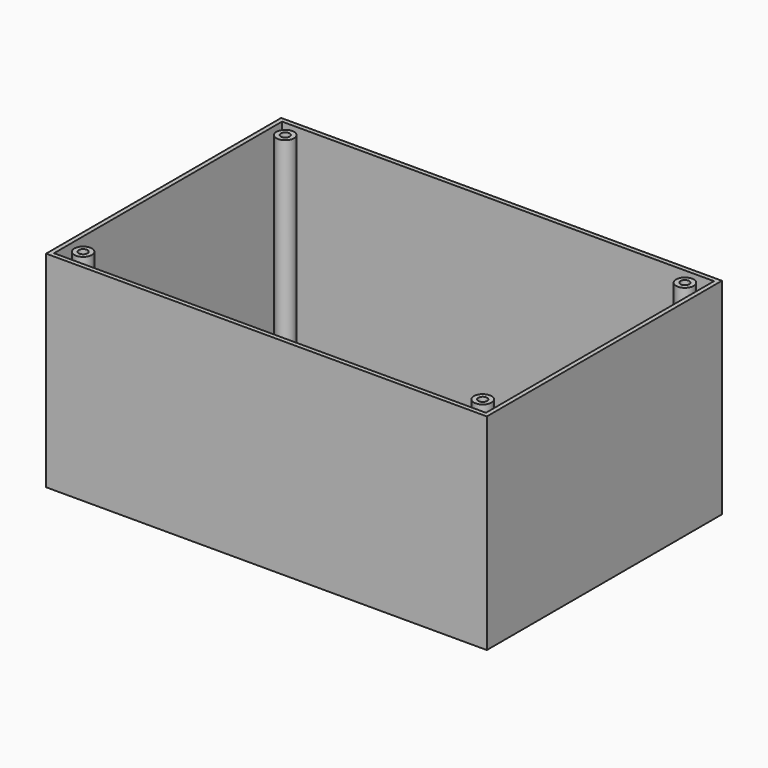
from build123d import *

# Parameters (mm, degrees)
F0_W     = 150
F0_H     = 100
F0_W_2   = 147
F0_H_2   = 97
F1_DEPTH = 70
F0_R     = 3
F0_R_2   = 1.5
F2_W     = 147
F2_H     = 97
F3_DEPTH = 3


with BuildPart() as f1:
    # F0 (on Top) → F1 (new body)
    with BuildSketch(Plane.XY):
        Rectangle(F0_W, F0_H)
        Rectangle(F0_W_2, F0_H_2, mode=Mode.SUBTRACT)
    extrude(amount=F1_DEPTH)


with BuildPart() as f1b:
    # F0 (on Top) → F1, piece 2 (new body)
    with BuildSketch(Plane.XY):
        with Locations((-68, 43)):
            Circle(F0_R)
        with Locations((-68, 43)):
            Circle(F0_R_2, mode=Mode.SUBTRACT)
    extrude(amount=F1_DEPTH)


with BuildPart() as f3:
    # F2 (on Top) → F3 (new body)
    with BuildSketch(Plane.XY):
        Rectangle(F2_W, F2_H)
    extrude(amount=F3_DEPTH)


with BuildPart() as f4_1:
    # F4: copy of F1b
    add(f1b.part.moved(Location((0, -86, 0))))


with BuildPart() as f5_1:
    # F5: copy of F1b
    add(f1b.part.moved(Location((136, 0, 0))))


with BuildPart() as f6_1:
    # F6: copy of F4_1
    add(f4_1.part.moved(Location((136, 0, 0))))


solid = Compound([f1.part, f1b.part, f3.part, f4_1.part, f5_1.part, f6_1.part])
